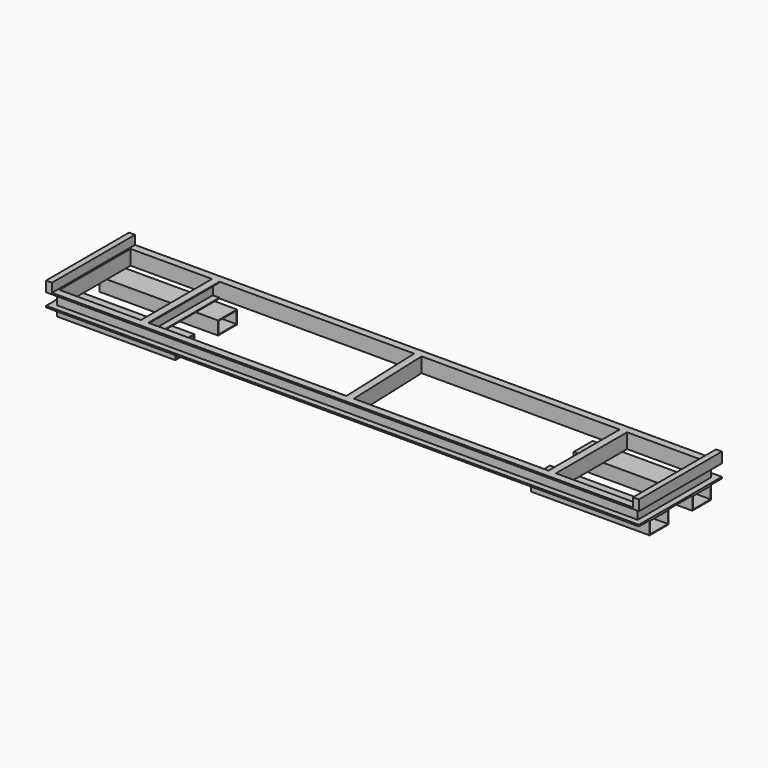
from build123d import *

# Parameters (mm, degrees)
F0_W          = 4000
F0_H          = 700
F0_W_2        = 50
F0_H_2        = 600
F1_DEPTH      = 100
F2_W          = 40
F2_H          = 80
F3_DEPTH      = 4000.001
F4_W          = 40
F4_H          = 80
F5_DEPTH      = 660.001
F6_W          = 90
F6_H          = 80
F6_H_2        = 90
F7_DEPTH      = 300
F7_DEPTH_BACK = 300
F8_W          = 40
F8_H          = 700
F9_DEPTH      = 60
F10_W         = 35
F10_H         = 55
F11_DEPTH     = 700.001
F12_W         = 160
F12_H         = 90
F12_W_2       = 150
F12_H_2       = 80
F13_DEPTH     = 800


with BuildPart() as f1:
    # F0 (on Top) → F1 (new body)
    with BuildSketch(Plane.XY):
        Rectangle(F0_W, F0_H)
        Polygon((-1950, -300), (-1950, 300), (-1400, 300), (-1350, 300), (-36.3996071229, 300), (-13.6363636364, -300), (-1350, -300), (-1400, -300), align=None, mode=Mode.SUBTRACT)
        Polygon((1400, 300), (1950, 300), (1950, -300), (1400, -300), (1350, -300), (36.3996071229, -300), (13.6363636364, 300), (1350, 300), align=None, mode=Mode.SUBTRACT)
        with Locations((-1375, 0)):
            Rectangle(F0_W_2, F0_H_2)
        with Locations((1375, 0)):
            Rectangle(F0_W_2, F0_H_2)
    extrude(amount=F1_DEPTH)

    # F2 (on face) → F3 (cut, through all)
    with BuildSketch(Plane(origin=(-2000, 0, 0), x_dir=(0, -1, 0), z_dir=(-1, 0, 0))):
        with Locations((-330, 50)):
            Rectangle(F2_W, F2_H)
        with Locations((330, 50)):
            Rectangle(F2_W, F2_H)
    extrude(amount=-F3_DEPTH, mode=Mode.SUBTRACT)

    # F4 (on face) → F5 (cut, through all)
    with BuildSketch(Plane.XZ.offset(310)):
        with Locations((1980, 50)):
            Rectangle(F4_W, F4_H)
        with Locations((-1980, 50)):
            Rectangle(F4_W, F4_H)
    extrude(amount=-F5_DEPTH, mode=Mode.SUBTRACT)

    # F6 (on Front) → F7 (cut, two sides)
    with BuildSketch(Plane.XZ) as f7_sk:
        with Locations((-45, 50)):
            Rectangle(F6_W, F6_H)
        with Locations((-1350, 50)):
            Rectangle(F6_W, F6_H_2)
        with Locations((1350, 50)):
            Rectangle(F6_W, F6_H_2)
    extrude(amount=-F7_DEPTH, mode=Mode.SUBTRACT)
    extrude(f7_sk.sketch, amount=F7_DEPTH_BACK, mode=Mode.SUBTRACT)

    # F8 (on face) → F9 (join)
    with BuildSketch(Plane.XY.offset(100)):
        with Locations((-1980, 0)):
            Rectangle(F8_W, F8_H)
        with Locations((1980, 0)):
            Rectangle(F8_W, F8_H)
    extrude(amount=F9_DEPTH)

    # F10 (on face) → F11 (cut, through all)
    with BuildSketch(Plane.XZ.offset(350)):
        with Locations((1280.4266214371, 130)):
            Rectangle(F10_W, F10_H)
        with Locations((-1280.4266214371, 130)):
            Rectangle(F10_W, F10_H)
    extrude(amount=-F11_DEPTH, mode=Mode.SUBTRACT)



with BuildPart() as f13:
    # F12 (on face) → F13 (new body)
    with BuildSketch(Plane(origin=(-2000, 0, 0), x_dir=(0, -1, 0), z_dir=(-1, 0, 0))):
        with Locations((-180, -45)):
            Rectangle(F12_W, F12_H)
        with Locations((-180, -45)):
            Rectangle(F12_W_2, F12_H_2, mode=Mode.SUBTRACT)
    extrude(amount=-F13_DEPTH)


with BuildPart() as f13b:
    # F12 (on face) → F13, piece 2 (new body)
    with BuildSketch(Plane(origin=(-2000, 0, 0), x_dir=(0, -1, 0), z_dir=(-1, 0, 0))):
        with Locations((180, -45)):
            Rectangle(F12_W, F12_H)
        with Locations((180, -45)):
            Rectangle(F12_W_2, F12_H_2, mode=Mode.SUBTRACT)
    extrude(amount=-F13_DEPTH)


with BuildPart() as f1_1:
    add(f1.part)

    add(f13.part)  # F14 merges F13

    add(f13b.part)  # F14 merges F13b
    # F14: F13b, F13 across plane
    add(f13b.part.mirror(Plane.YZ))
    add(f13.part.mirror(Plane.YZ))


solid = f1_1.part
